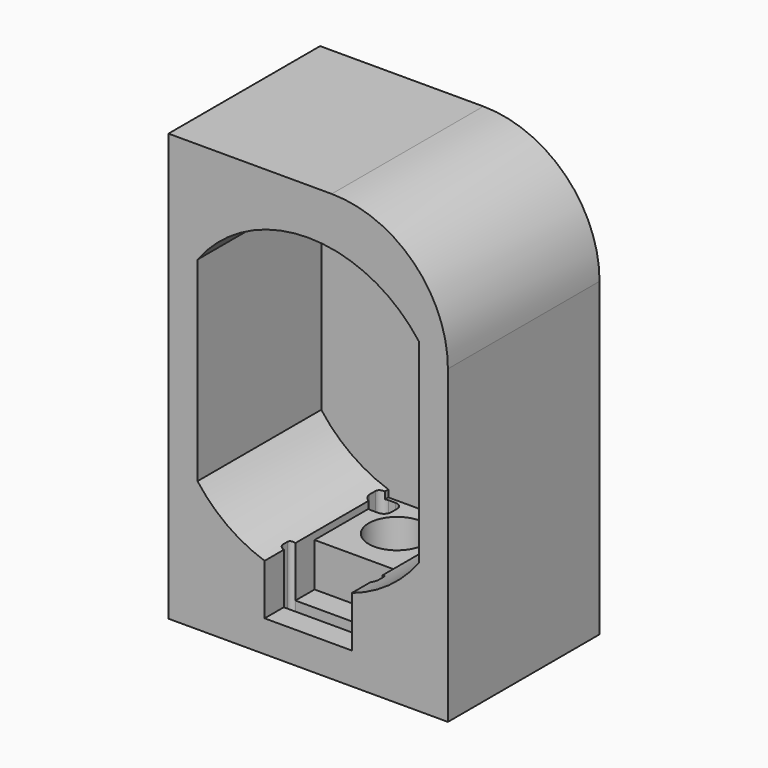
from build123d import *

# Parameters (mm, degrees)
F2_DEPTH       = 10.6500000106
F4_W           = 19.24
F4_H           = 27.4
F5_DEPTH       = 2.4
F6_W           = 6
F6_H           = 0.6600641444
F7_DEPTH       = 10.6500000106
F8_W           = 19.24
F8_H           = 13.0500000106
F9_DEPTH       = 2
F10_R          = 1.95
F11_DEPTH      = 4.2
F12_W          = 6
F12_H          = 4.3
F13_DEPTH      = 3
F14_R          = 8
F15_W          = 6.6
F15_H          = 1
F16_DEPTH      = 8
F16_DEPTH_BACK = 8
F17_R          = 0.3
F18_W          = 1.5
F18_H          = 1.5
F19_DEPTH      = 5.175
F19_DEPTH_BACK = 1
F20_R          = 0.5


with BuildPart() as f2:
    # F1 (on Front) → F2 (new body)
    with BuildSketch(Plane.XZ):
        Polygon((9.62, -1), (9.62, 12.7), (7.62, 12.7), (7.62, 5.715), (7.62, 4.7), (7.62, -1), align=None)
        with BuildLine():
            Line((7.62, 5.715), (7.62, 12.7))
            Line((7.62, 12.7), (-7.62, 12.7))
            Line((-7.62, 12.7), (-7.62, 5.715))
            ThreePointArc((-7.62, 5.715), (0, 9.525), (7.62, 5.715))
        make_face()
        Polygon((-7.62, 5.715), (-7.62, 12.7), (-9.62, 12.7), (-9.62, -1), (-7.62, -1), (-7.62, 4.7), align=None)
    extrude(amount=F2_DEPTH)

    # F3: F2 across face


with BuildPart() as f2_1:
    add(f2.part)
    add(f2.part.mirror(Plane(origin=(-8.62, -5.3250000053, -1), x_dir=(1, 0, 0), z_dir=(0, 0, -1))))

    # F4 (on face) → F5 (join)
    with BuildSketch(Plane(origin=(0, 0, 0), x_dir=(-1, 0, 0), z_dir=(0, 1, 0))):
        with Locations((0, -1)):
            Rectangle(F4_W, F4_H)
    extrude(amount=F5_DEPTH)

    # F6 (on face) → F7 (cut, through all)
    with BuildSketch(Plane.XZ.offset(10.6500000106)):
        with Locations((0, -11.1949679278)):
            Rectangle(F6_W, F6_H)
    extrude(amount=-F7_DEPTH, mode=Mode.SUBTRACT)

    # F8 (on face) → F9 (join)
    with BuildSketch(Plane(origin=(0, 0, -14.7), x_dir=(1, 0, 0), z_dir=(0, 0, -1))):
        with Locations((0, 4.1250000053)):
            Rectangle(F8_W, F8_H)
    extrude(amount=F9_DEPTH)

    # F10 (on face) → F11 (cut)
    with BuildSketch(Plane.XY.offset(-11.525)):
        with Locations((0, -3)):
            Circle(F10_R)
    extrude(amount=-F11_DEPTH, mode=Mode.SUBTRACT)

    # F12 (on face) → F13 (cut)
    with BuildSketch(Plane.XY.offset(-11.525)):
        with Locations((0, -8.5000000106)):
            Rectangle(F12_W, F12_H)
    extrude(amount=-F13_DEPTH, mode=Mode.SUBTRACT)

    # F14
    f14_edges = [f2_1.edges().sort_by_distance(p)[0] for p in [
        (9.62, -4.125, 12.7),
    ]]
    fillet(f14_edges, radius=F14_R)

    # F15 (on face) → F16 (cut, two sides)
    with BuildSketch(Plane.XY.offset(-14.525)) as f16_sk:
        with Locations((0, -8.5000000106)):
            Rectangle(F15_W, F15_H)
    extrude(amount=-F16_DEPTH, mode=Mode.SUBTRACT)
    extrude(f16_sk.sketch, amount=F16_DEPTH_BACK, mode=Mode.SUBTRACT)

    # F17
    f17_edges = [f2_1.edges().sort_by_distance(p)[0] for p in [
        (3.3, -8, -13.817539),
        (-3.3, -8, -13.817539),
        (-3.3, -9, -13.817539),
        (3.3, -9, -13.817539),
    ]]
    fillet(f17_edges, radius=F17_R)

    # F18 (on face) → F19 (cut, two sides)
    with BuildSketch(Plane.XY.offset(-11.525)) as f19_sk:
        with Locations((2.55, -1)):
            Rectangle(F18_W, F18_H)
        with Locations((-2.55, -1)):
            Rectangle(F18_W, F18_H)
    extrude(amount=-F19_DEPTH, mode=Mode.SUBTRACT)
    extrude(f19_sk.sketch, amount=F19_DEPTH_BACK, mode=Mode.SUBTRACT)

    # F20
    f20_edges = [f2_1.edges().sort_by_distance(p)[0] for p in [
        (3.3, -0.25, -13.817539),
        (3.3, -1.75, -13.817539),
        (1.8, -1.75, -14.1125),
        (1.8, -0.25, -14.1125),
        (-3.3, -0.25, -13.817539),
        (-1.8, -0.25, -14.1125),
        (-1.8, -1.75, -14.1125),
        (-3.3, -1.75, -13.817539),
    ]]
    fillet(f20_edges, radius=F20_R)


solid = f2_1.part
